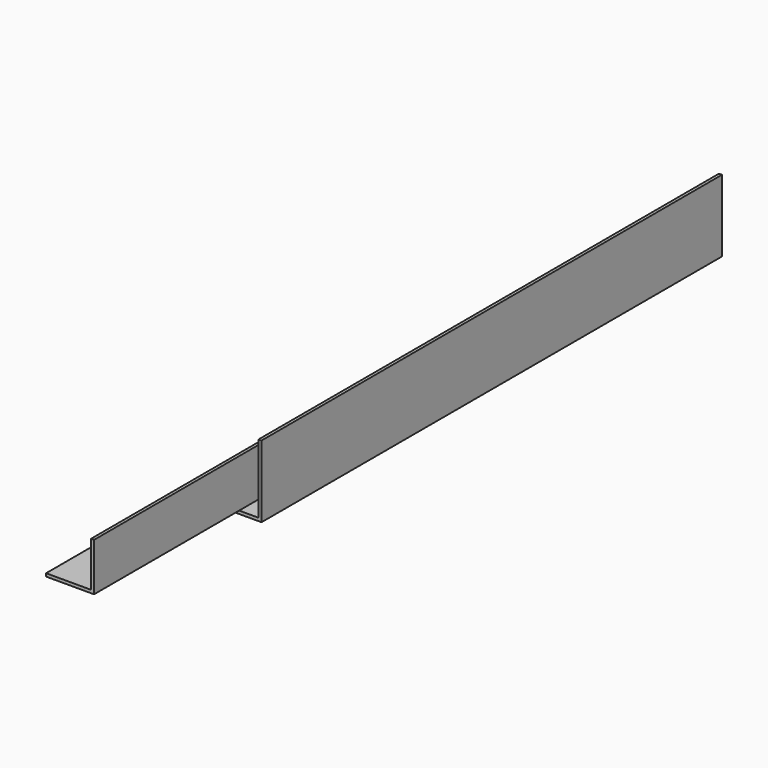
from build123d import *

# Parameters (mm, degrees)
F0_W     = 1.5875
F0_H     = 1.5875
F0_H_2   = 23.8125
F0_W_2   = 23.8125
F1_DEPTH = 406.4
F2_W     = 1.5875
F2_H     = 1.5875
F2_H_2   = 36.5125
F2_W_2   = 36.5125
F3_DEPTH = 304.8


with BuildPart() as f1:
    # F0 (on Front) → F1 (new body)
    with BuildSketch(Plane.XZ):
        with Locations((11.90625, 0)):
            Rectangle(F0_W, F0_H)
        with Locations((11.90625, 12.7)):
            Rectangle(F0_W, F0_H_2)
        with Locations((-0.79375, 0)):
            Rectangle(F0_W_2, F0_H)
    extrude(amount=F1_DEPTH)


with BuildPart() as f3:
    # F2 (on Front) → F3 (new body)
    with BuildSketch(Plane.XZ):
        with Locations((19.314583, -5.291667)):
            Rectangle(F2_W, F2_H)
        with Locations((19.314583, 13.758333)):
            Rectangle(F2_W, F2_H_2)
        with Locations((0.264583, -5.291667)):
            Rectangle(F2_W_2, F2_H)
    extrude(amount=F3_DEPTH)


solid = Compound([f1.part, f3.part])
